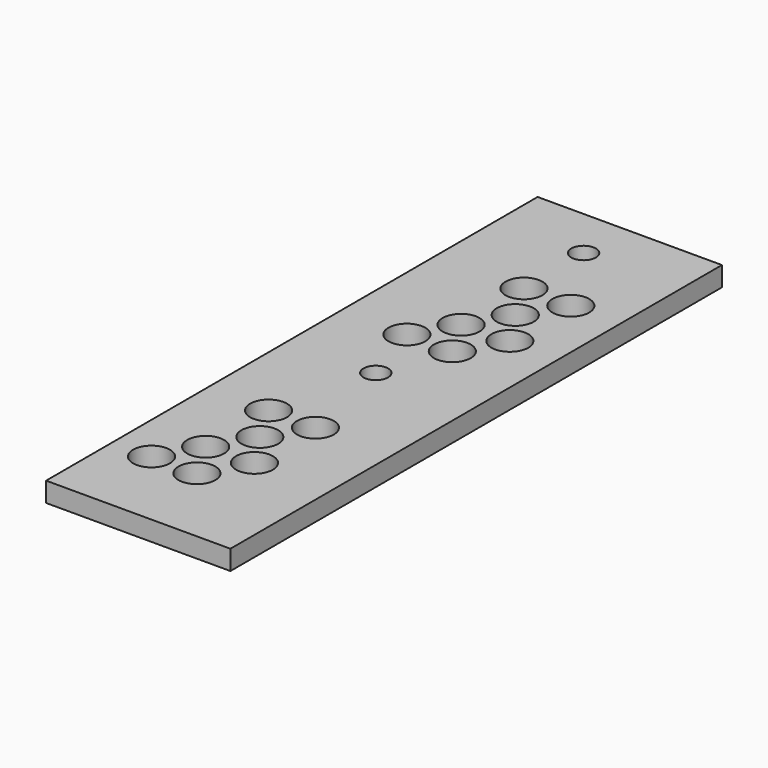
from build123d import *

# Parameters (mm, degrees)
PAD_DEPTH     = 16
SKETCH001_R   = 15
SKETCH001_R_2 = 10
POCKET_DEPTH  = 16.001


with BuildPart() as part:
    # Sketch → Pad (new body)
    with BuildSketch(Plane.XY):
        Polygon((0, 500), (150, 500), (150, 0), (0, 0), (0, 250), align=None)
    extrude(amount=PAD_DEPTH)

    # Sketch001 (on Face7 of Pad) → Pocket (cut, through all)
    with BuildSketch(Plane.XY.offset(16)):
        with Locations((31.579084, 67.777323)):
            Circle(SKETCH001_R)
        with Locations((50.054292, 99.777323)):
            Circle(SKETCH001_R)
        with Locations((68.529501, 131.777323)):
            Circle(SKETCH001_R)
        with Locations((50.054292, 163.777323)):
            Circle(SKETCH001_R)
        with Locations((71, 246.635039)):
            Circle(SKETCH001_R_2)
        with Locations((68.529501, 67.777323)):
            Circle(SKETCH001_R)
        with Locations((88.15941, 101.777323)):
            Circle(SKETCH001_R)
        with Locations((88.15941, 163.777323)):
            Circle(SKETCH001_R)
        with Locations((53.441466, 300.257294)):
            Circle(SKETCH001_R)
        with Locations((71.916674, 332.257294)):
            Circle(SKETCH001_R)
        with Locations((90.391883, 364.257294)):
            Circle(SKETCH001_R)
        with Locations((71.916674, 396.257294)):
            Circle(SKETCH001_R)
        with Locations((71, 458)):
            Circle(SKETCH001_R_2)
        with Locations((90.391883, 300.257294)):
            Circle(SKETCH001_R)
        with Locations((110.021792, 334.257294)):
            Circle(SKETCH001_R)
        with Locations((110.021792, 396.257294)):
            Circle(SKETCH001_R)
    extrude(amount=-POCKET_DEPTH, mode=Mode.SUBTRACT)


solid = part.part
